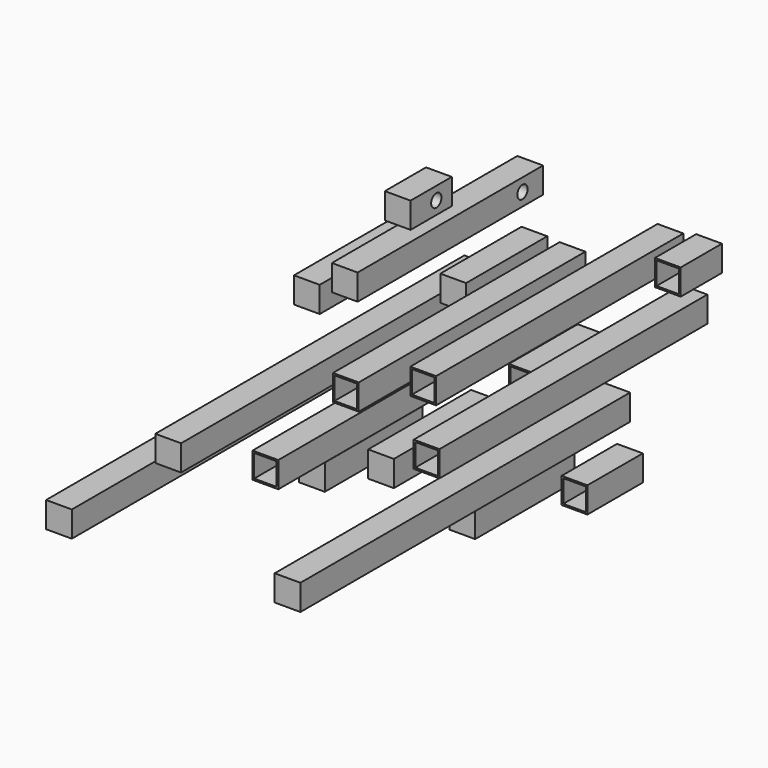
from build123d import *

# Parameters (mm, degrees)
F0_W      = 25.4
F0_H      = 25.4
F1_DEPTH  = 381
F2_W      = 25.4
F2_H      = 25.4
F2_W_2    = 22.225
F2_H_2    = 22.225
F3_DEPTH  = 317.5
F4_W      = 25.4
F4_H      = 25.4
F5_DEPTH  = 152.4
F6_W      = 228.6
F6_H      = 25.4
F6_R      = 6.35
F7_DEPTH  = 25.4
F8_W      = 50.8
F8_H      = 25.4
F8_R      = 6.35
F9_DEPTH  = 25.4
F10_W     = 25.4
F10_H     = 25.4
F11_DEPTH = 459.74
F12_W     = 25.4
F12_H     = 25.4
F13_DEPTH = 100.076
F14_W     = 25.4
F14_H     = 25.4
F15_DEPTH = 122.3264
F16_W     = 25.4
F16_H     = 25.4
F17_DEPTH = 120.5992
F18_W     = 25.4
F18_H     = 25.4
F19_DEPTH = 127
F20_W     = 25.4
F20_H     = 25.4
F21_DEPTH = 406.4
F22_W     = 25.4
F22_H     = 25.4
F22_W_2   = 22.225
F22_H_2   = 22.225
F23_DEPTH = 279.4
F24_W     = 25.4
F24_H     = 25.4
F24_W_2   = 22.225
F24_H_2   = 22.225
F25_DEPTH = 304.8
F26_W     = 25.4
F26_H     = 25.4
F26_W_2   = 22.225
F26_H_2   = 22.225
F27_DEPTH = 50.8
F28_W     = 25.4
F28_H     = 25.4
F28_W_2   = 22.225
F28_H_2   = 22.225
F29_DEPTH = 330.2
F30_W     = 25.4
F30_H     = 25.4
F30_W_2   = 22.225
F30_H_2   = 22.225
F31_DEPTH = 84.836
F32_W     = 25.4
F32_H     = 25.4
F32_W_2   = 22.225
F32_H_2   = 22.225
F33_DEPTH = 68.2625


with BuildPart() as f1:
    # F0 (on Front) → F1 (new body)
    with BuildSketch(Plane.XZ):
        with Locations((6.012416, -1.331083)):
            Rectangle(F0_W, F0_H)
    extrude(amount=F1_DEPTH)


with BuildPart() as f3:
    # F2 (on Front) → F3 (new body)
    with BuildSketch(Plane.XZ):
        with Locations((51.112667, -27.039096)):
            Rectangle(F2_W, F2_H)
        with Locations((51.112667, -27.039096)):
            Rectangle(F2_W_2, F2_H_2, mode=Mode.SUBTRACT)
    extrude(amount=F3_DEPTH)


with BuildPart() as f5:
    # F4 (on Front) → F5 (new body)
    with BuildSketch(Plane.XZ):
        with Locations((-40.122539, 28.319776)):
            Rectangle(F4_W, F4_H)
    extrude(amount=F5_DEPTH)


with BuildPart() as f7:
    # F6 (on Right) → F7 (new body)
    with BuildSketch(Plane.YZ):
        with Locations((-57.385214, 64.036405)):
            Rectangle(F6_W, F6_H)
        with Locations((31.514786, 64.036405)):
            Circle(F6_R, mode=Mode.SUBTRACT)
    extrude(amount=F7_DEPTH)


with BuildPart() as f9:
    # F8 (on Right) → F9 (new body)
    with BuildSketch(Plane.YZ):
        with Locations((-81.024057, 99.897847)):
            Rectangle(F8_W, F8_H)
        with Locations((-74.674057, 99.897847)):
            Circle(F8_R, mode=Mode.SUBTRACT)
    extrude(amount=F9_DEPTH)


with BuildPart() as f11:
    # F10 (on Front) → F11 (new body)
    with BuildSketch(Plane.XZ):
        with Locations((-38.722203, -41.346163)):
            Rectangle(F10_W, F10_H)
    extrude(amount=F11_DEPTH)


with BuildPart() as f13:
    # F12 (on Front) → F13 (new body)
    with BuildSketch(Plane.XZ):
        with Locations((62.380522, 41.878674)):
            Rectangle(F12_W, F12_H)
    extrude(amount=F13_DEPTH)


with BuildPart() as f15:
    # F14 (on Front) → F15 (new body)
    with BuildSketch(Plane.XZ):
        with Locations((89.140385, -137.282215)):
            Rectangle(F14_W, F14_H)
    extrude(amount=F15_DEPTH)


with BuildPart() as f17:
    # F16 (on Front) → F17 (new body)
    with BuildSketch(Plane.XZ):
        with Locations((-60.525931, -145.576701)):
            Rectangle(F16_W, F16_H)
    extrude(amount=F17_DEPTH)


with BuildPart() as f19:
    # F18 (on Front) → F19 (new body)
    with BuildSketch(Plane.XZ):
        with Locations((12.7, -115.983012)):
            Rectangle(F18_W, F18_H)
    extrude(amount=F19_DEPTH)


with BuildPart() as f21:
    # F20 (on Front) → F21 (new body)
    with BuildSketch(Plane.XZ):
        with Locations((144.062687, -67.233101)):
            Rectangle(F20_W, F20_H)
    extrude(amount=F21_DEPTH)


with BuildPart() as f23:
    # F22 (on Front) → F23 (new body)
    with BuildSketch(Plane.XZ):
        with Locations((99.933479, 40.732481)):
            Rectangle(F22_W, F22_H)
        with Locations((99.933479, 40.732481)):
            Rectangle(F22_W_2, F22_H_2, mode=Mode.SUBTRACT)
    extrude(amount=F23_DEPTH)


with BuildPart() as f25:
    # F24 (on Front) → F25 (new body)
    with BuildSketch(Plane.XZ):
        with Locations((196.544535, 87.954864)):
            Rectangle(F24_W, F24_H)
        with Locations((196.544535, 87.954864)):
            Rectangle(F24_W_2, F24_H_2, mode=Mode.SUBTRACT)
    extrude(amount=F25_DEPTH)


with BuildPart() as f27:
    # F26 (on Front) → F27 (new body)
    with BuildSketch(Plane.XZ):
        with Locations((234.632495, 91.471016)):
            Rectangle(F26_W, F26_H)
        with Locations((234.632495, 91.471016)):
            Rectangle(F26_W_2, F26_H_2, mode=Mode.SUBTRACT)
    extrude(amount=F27_DEPTH)


with BuildPart() as f29:
    # F28 (on Front) → F29 (new body)
    with BuildSketch(Plane.XZ):
        with Locations((220.217026, 42.579796)):
            Rectangle(F28_W, F28_H)
        with Locations((220.217026, 42.579796)):
            Rectangle(F28_W_2, F28_H_2, mode=Mode.SUBTRACT)
    extrude(amount=F29_DEPTH)


with BuildPart() as f31:
    # F30 (on Front) → F31 (new body)
    with BuildSketch(Plane.XZ):
        with Locations((117.779925, -24.751918)):
            Rectangle(F30_W, F30_H)
        with Locations((117.779925, -24.751918)):
            Rectangle(F30_W_2, F30_H_2, mode=Mode.SUBTRACT)
    extrude(amount=F31_DEPTH)


with BuildPart() as f33:
    # F32 (on Front) → F33 (new body)
    with BuildSketch(Plane.XZ):
        with Locations((156.584144, -115.978435)):
            Rectangle(F32_W, F32_H)
        with Locations((156.584144, -115.978435)):
            Rectangle(F32_W_2, F32_H_2, mode=Mode.SUBTRACT)
    extrude(amount=F33_DEPTH)


solid = Compound([f1.part, f3.part, f5.part, f7.part, f9.part, f11.part, f13.part, f15.part, f17.part, f19.part, f21.part, f23.part, f25.part, f27.part, f29.part, f31.part, f33.part])
